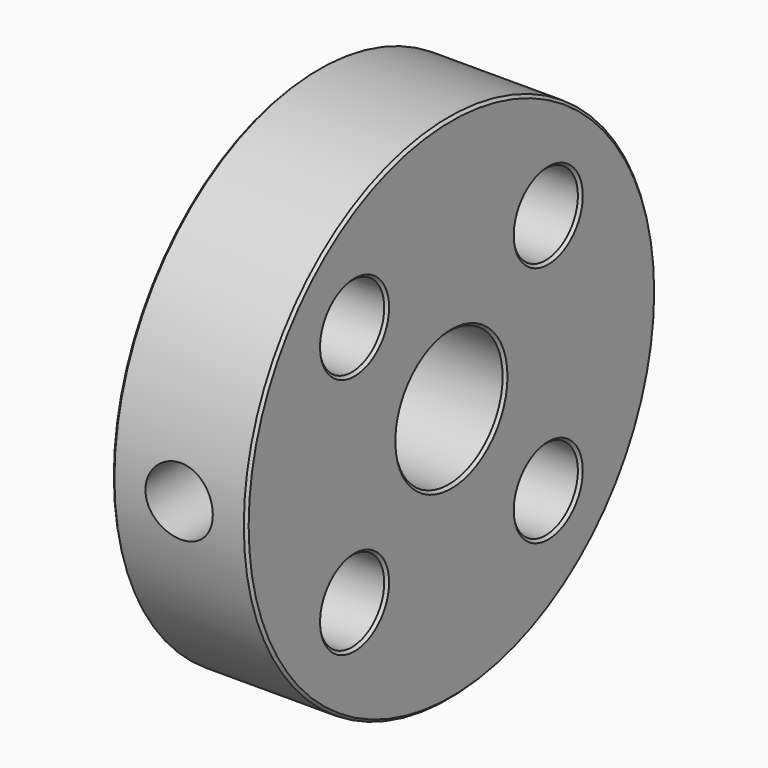
from build123d import *

# Parameters (mm, degrees)
F0_R     = 9.5
F0_R_2   = 2.5
F1_DEPTH = 2.5
F2_R     = 1.5
F3_DEPTH = 5.001
F4_R     = 1.25
F5_DEPTH = 9.501
F6_SIZE  = 0.1


with BuildPart() as f1:
    # F0 (on Right) → F1 (new body, symmetric)
    with BuildSketch(Plane.YZ):
        Circle(F0_R)
        Circle(F0_R_2, mode=Mode.SUBTRACT)
    extrude(amount=F1_DEPTH, both=True)

    # F2 (on face) → F3 (cut, through all)
    with BuildSketch(Plane.YZ.offset(2.5)):
        with Locations((-4.490128, 4.490128)):
            Circle(F2_R)
        with Locations((-4.490128, -4.490128)):
            Circle(F2_R)
        with Locations((4.490128, -4.490128)):
            Circle(F2_R)
        with Locations((4.490128, 4.490128)):
            Circle(F2_R)
    extrude(amount=-F3_DEPTH, mode=Mode.SUBTRACT)

    # F4 (on Front) → F5 (cut, through all)
    with BuildSketch(Plane.XZ):
        Circle(F4_R)
    extrude(amount=F5_DEPTH, mode=Mode.SUBTRACT)

    # F6
    f6_edges = [f1.edges().sort_by_distance(p)[0] for p in [
        (2.5, -9.5, 0),
        (2.5, -5.990128, -4.490128),
        (2.5, 2.990128, -4.490128),
        (2.5, -5.990128, 4.490128),
        (2.5, -2.5, 0),
        (2.5, 2.990128, 4.490128),
        (-2.5, -9.5, 0),
        (-2.5, -5.990128, -4.490128),
        (-2.5, 2.990128, -4.490128),
        (-2.5, -5.990128, 4.490128),
        (-2.5, -2.5, 0),
        (-2.5, 2.990128, 4.490128),
    ]]
    chamfer(f6_edges, length=F6_SIZE)


solid = f1.part
